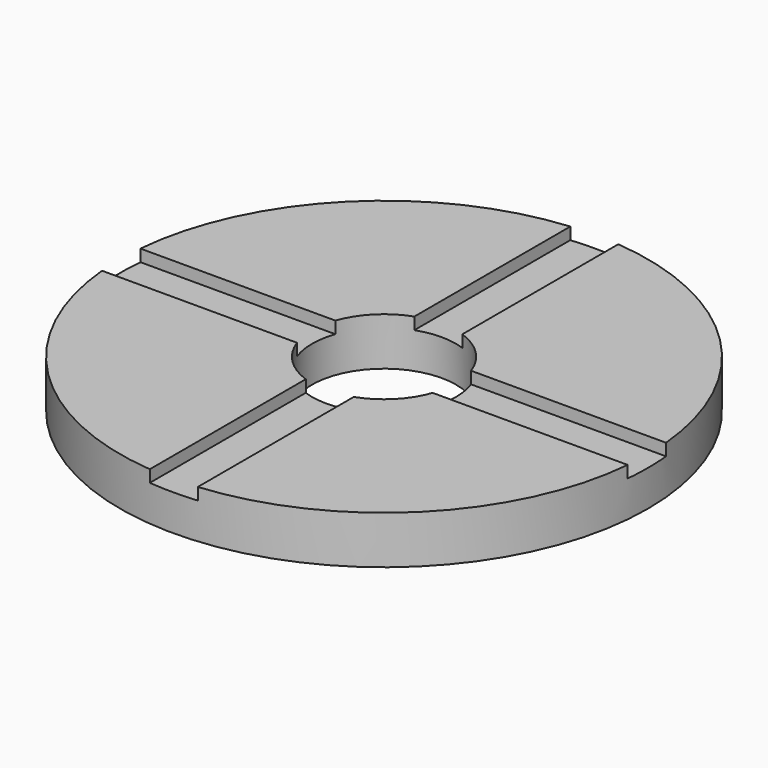
from build123d import *

# Parameters (mm, degrees)
F0_R     = 69.85
F1_DEPTH = 12.7
F3_DEPTH = 3.175
F4_R     = 19.05
F5_DEPTH = 12.701


with BuildPart() as f1:
    # F0 (on Top) → F1 (new body)
    with BuildSketch(Plane.XY):
        Circle(F0_R)
    extrude(amount=-F1_DEPTH)

    # F2 (on Top) → F3 (cut)
    with BuildSketch(Plane.XY):
        Polygon((6.35, 76.042563), (-6.35, 76.042563), (-6.35, 6.35), (-75.381324, 6.35), (-75.381324, -6.35), (-6.35, -6.35), (-6.35, -74.058846), (6.35, -74.058846), (6.35, -6.35), (76.042563, -6.35), (76.042563, 6.35), (6.35, 6.35), align=None)
    extrude(amount=-F3_DEPTH, mode=Mode.SUBTRACT)

    # F4 (on Top) → F5 (cut, through all)
    with BuildSketch(Plane.XY):
        Circle(F4_R)
    extrude(amount=-F5_DEPTH, mode=Mode.SUBTRACT)


solid = f1.part
